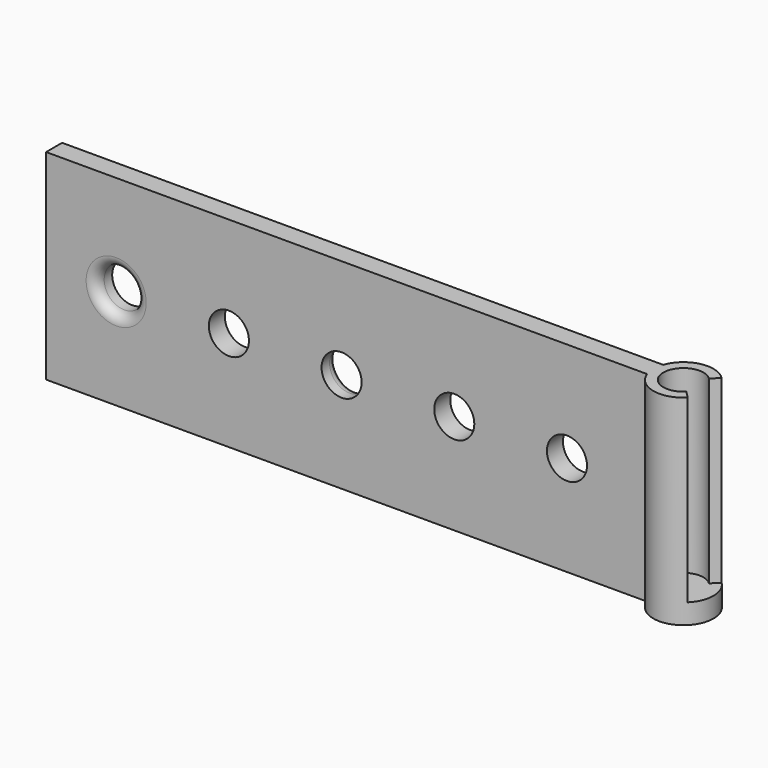
from build123d import *

# Parameters (mm, degrees)
PAD001_DEPTH           = 20
SKETCH003_R            = 2
POCKET001_DEPTH        = 4.001
LINEARPATTERN001_COUNT = 5
LINEARPATTERN001_PITCH = 11.25
POCKET002_DEPTH        = 18
FILLET_R               = 1
FILLET001_R            = 1


with BuildPart() as part:
    # Sketch002 → Pad001 (new body)
    with BuildSketch(Plane.XY):
        with BuildLine():
            Line((0, -8.676507), (-60, -8.676507))
            Line((-60, -8.676507), (-60, -10.676507))
            Line((-60, -10.676507), (0, -10.676507))
            ThreePointArc((0, -10.676507), (5.828427, -9.676507), (0, -8.676507))
        make_face()
    extrude(amount=PAD001_DEPTH)

    # Sketch003 → Pocket001 (cut, through all)
    with BuildSketch(Plane.XZ.offset(10.676507)):
        with Locations((-53, 10)):
            Circle(SKETCH003_R)
    pocket001 = extrude(amount=-POCKET001_DEPTH, mode=Mode.SUBTRACT)

    # LinearPattern001: Pocket001 ×5
    with Locations(*[(i * LINEARPATTERN001_PITCH, 0, 0) for i in range(1, LINEARPATTERN001_COUNT)]):
        add(pocket001, mode=Mode.SUBTRACT)

    # Sketch005 → Pocket002 (cut)
    with BuildSketch(Plane.XY.offset(20)):
        with BuildLine():
            ThreePointArc((5.527045, -12.375125), (6.644849, -9.676507), (5.527045, -6.97789))
            Line((4.242641, -8.262294), (5.527045, -6.97789))
            ThreePointArc((4.242641, -8.262294), (0.828427, -9.676507), (4.242641, -11.090721))
            Line((4.242641, -11.090721), (5.527045, -12.375125))
        make_face()
    extrude(amount=-POCKET002_DEPTH, mode=Mode.SUBTRACT)

    # Fillet
    fillet_edges = [part.edges().sort_by_distance(p)[0] for p in [
        (-55, -10.676507, 10),
    ]]
    fillet(fillet_edges, radius=FILLET_R)

    # Fillet001
    fillet001_edges = [part.edges().sort_by_distance(p)[0] for p in [
        (-32.5, -8.676507, 10),
    ]]
    fillet(fillet001_edges, radius=FILLET001_R)


solid = part.part
